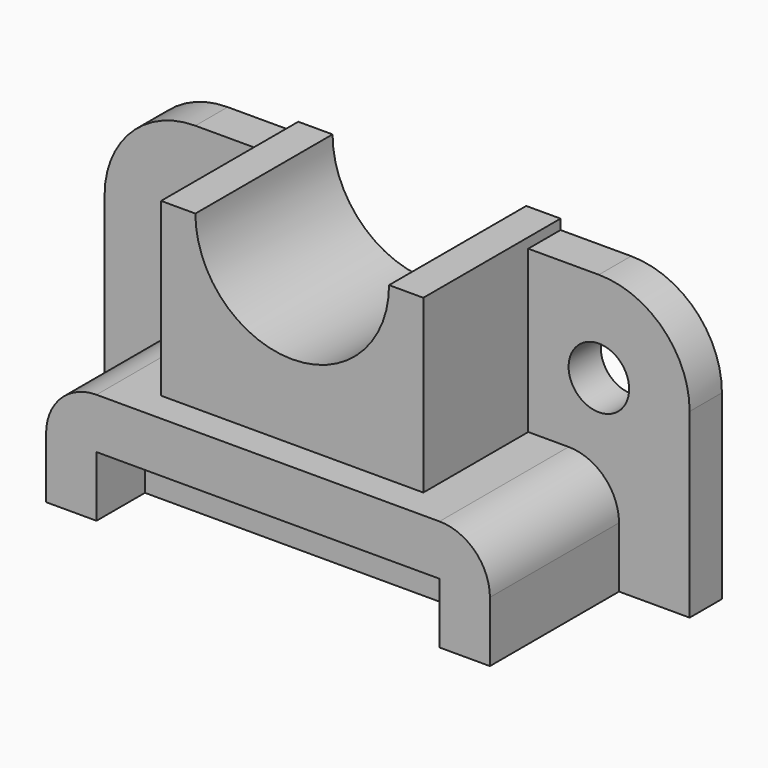
from build123d import *

# Parameters (mm, degrees)
PAD002_DEPTH = 85
PAD001_DEPTH = 100
SKETCH_W     = 170
SKETCH_H     = 30
PAD_DEPTH    = 70
SKETCH003_R  = 15
PAD003_DEPTH = 20


with BuildPart() as pad002:
    # Sketch002 → Pad002 (new body)
    with BuildSketch(Plane.XZ):
        with BuildLine():
            Line((-48, 140), (-65, 140))
            Line((-65, 140), (-65, 55))
            Line((-65, 55), (65, 55))
            Line((65, 55), (65, 140))
            Line((65, 140), (48, 140))
            ThreePointArc((-48, 140), (0, 92), (48, 140))
        make_face()
    extrude(amount=PAD002_DEPTH)


with BuildPart() as pad001:
    # Sketch001 → Pad001 (new body)
    with BuildSketch(Plane.XZ):
        with BuildLine():
            Line((-85, 0), (-85, 30))
            Line((-85, 30), (85, 30))
            Line((85, 30), (85, 0))
            Line((85, 0), (110, 0))
            Line((110, 0), (110, 30))
            ThreePointArc((110, 30), (102.67767, 47.67767), (85, 55))
            Line((85, 55), (-85, 55))
            ThreePointArc((-85, 55), (-102.67767, 47.67767), (-110, 30))
            Line((-110, 30), (-110, 0))
            Line((-110, 0), (-85, 0))
        make_face()
    extrude(amount=PAD001_DEPTH)


with BuildPart() as pad:
    # Sketch → Pad (new body)
    with BuildSketch(Plane.XZ):
        with Locations((0, 15)):
            Rectangle(SKETCH_W, SKETCH_H)
    extrude(amount=PAD_DEPTH)


with BuildPart() as fusion:
    # Sketch003 → Pad003 (new body)
    with BuildSketch(Plane.XZ):
        with BuildLine():
            Line((65, 0), (145, 0))
            Line((145, 0), (145, 90))
            ThreePointArc((145, 90), (131.819805, 121.819805), (100, 135))
            Line((100, 135), (65, 135))
            Line((65, 135), (65, 0))
        make_face()
        with Locations((100, 90)):
            Circle(SKETCH003_R, mode=Mode.SUBTRACT)
        with BuildLine():
            Line((-65, 0), (-145, 0))
            Line((-145, 0), (-145, 90))
            ThreePointArc((-100, 135), (-131.819805, 121.819805), (-145, 90))
            Line((-100, 135), (-65, 135))
            Line((-65, 135), (-65, 0))
        make_face()
        with Locations((-100, 90)):
            Circle(SKETCH003_R, mode=Mode.SUBTRACT)
    extrude(amount=PAD003_DEPTH)

    # Fusion: union Pad002, Pad001, Pad
    add(pad002.part)
    add(pad001.part)
    add(pad.part)


solid = fusion.part
